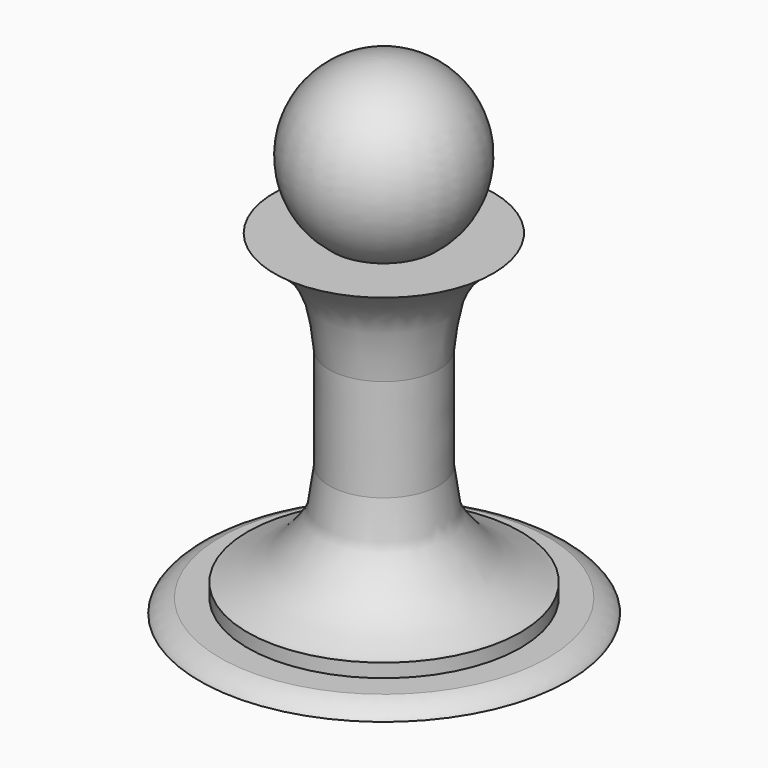
from build123d import *


with BuildPart() as f1:
    # F0 (on Front) → F1 (revolve)
    with BuildSketch(Plane.XZ):
        with BuildLine():
            Line((16.0602549567, -15.4621153726), (7.5602549567, -15.4621153726))
            ThreePointArc((7.5602549567, -15.4621153726), (11.9092345657, -1.4806982601), (0, 7.0377394002))
            Line((0, 7.0377394002), (0.0210680353, -17.9620539479))
            Line((0.0210680353, -17.9620539479), (0.0602549567, -64.4621153726))
            Line((0.0602549567, -64.4621153726), (27.0602549567, -64.4621153726))
            add(Edge.make_bspline(
                [(24.0602549567, -62.4621153726), (24.2976343533, -62.5299482609), (24.6610161779, -62.659273132), (25.3953288411, -63.000628175), (26.1296100935, -63.488961221), (26.6120109423, -63.8396804611), (26.9844977473, -64.2711132928), (27.0602549567, -64.4621153726)],
                knots=[0, 0, 0, 0, 0.1871194335, 0.395890859, 0.6146239818, 0.7997660524, 1, 1, 1, 1], degree=3))
            Line((24.0602549567, -62.4621153726), (20.0602549567, -62.4621153726))
            Line((20.0602549567, -62.4621153726), (20.0602549567, -60.4621153726))
            add(Edge.make_bspline(
                [(8.0602549567, -45.4621153726), (8.1202179338, -46.2604888161), (8.4882346329, -48.7671795342), (8.8159630246, -51.106048365), (9.7836826184, -53.012188928), (12.8822067968, -56.7280350203), (14.674401585, -57.9681740481), (16.0955126132, -58.8286453234), (17.1337599051, -59.3246168108), (18.2158143663, -59.8336196795), (19.4334469038, -60.3452031361), (20.0602549567, -60.4621153726)],
                knots=[0, 0, 0, 0, 0.1359045694, 0.2517978021, 0.3615656635, 0.5258739798, 0.6392079546, 0.7333337546, 0.8126882779, 0.8949414167, 1, 1, 1, 1], degree=3))
            Line((8.0602549567, -45.4621153726), (8.0602549567, -30.4621153726))
            add(Edge.make_bspline(
                [(16.0602549567, -15.4621153726), (15.6748016449, -15.7156297876), (14.8363137229, -16.2524384887), (13.3584036697, -17.6179345625), (11.8257365644, -18.9579435855), (10.3041434737, -21.0251573137), (9.2249686684, -23.247421733), (8.5995600709, -26.0760591157), (8.3121636182, -28.1564764322), (8.0995725705, -29.7078921018), (8.0602549567, -30.4621153726)],
                knots=[0, 0, 0, 0, 0.1009164062, 0.2194508043, 0.3405479184, 0.473970684, 0.607526809, 0.7495865753, 0.8727033634, 1, 1, 1, 1], degree=3))
        make_face()
    revolve(axis=Axis((0.0301274783, 0, -28.7121879862), (0.0008427281, 0, -0.9999996449)))


solid = f1.part
